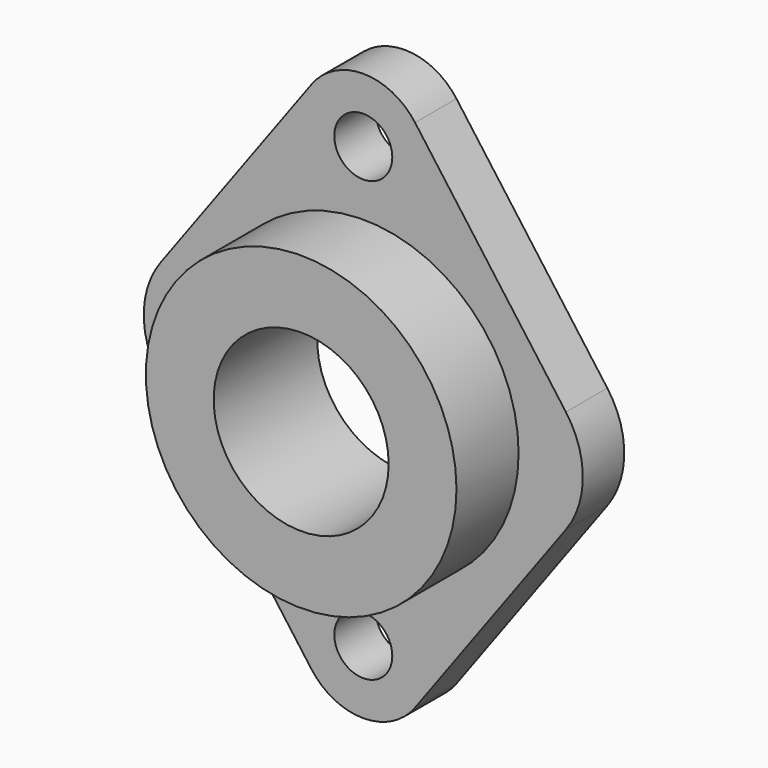
from build123d import *

# Parameters (mm, degrees)
F0_R     = 7.112
F0_R_2   = 38.1
F1_DEPTH = 12.7
F0_R_3   = 21.463
F2_DEPTH = 31.75
F4_START = -25.4
F4_DEPTH = 31.75


with BuildPart() as f1:
    # F0 (on Front) → F1 (new body)
    with BuildSketch(Plane.XZ):
        with BuildLine():
            ThreePointArc((12.7, 63.1597938122), (0, 69.596), (-12.7, 63.1597938122))
            Line((-12.7, 63.1597938122), (-49.6977319514, 12.7))
            ThreePointArc((-49.6977319514, 12.7), (-53.8547827604, 0), (-49.6977319514, -12.7))
            Line((-49.6977319514, -12.7), (-12.7, -63.1597938122))
            ThreePointArc((-12.7, -63.1597938122), (0, -69.596), (12.7, -63.1597938122))
            Line((12.7, -63.1597938122), (49.6977319514, -12.7))
            ThreePointArc((49.6977319514, -12.7), (53.8547827604, 0), (49.6977319514, 12.7))
            Line((49.6977319514, 12.7), (12.7, 63.1597938122))
        make_face()
        with Locations((0, -53.848)):
            Circle(F0_R, mode=Mode.SUBTRACT)
        Circle(F0_R_2, mode=Mode.SUBTRACT)
        with Locations((0, 53.848)):
            Circle(F0_R, mode=Mode.SUBTRACT)
    extrude(amount=F1_DEPTH)

    # F0 (on Front) → F2 (join)
    with BuildSketch(Plane.XZ):
        Circle(F0_R_2)
        Circle(F0_R_3, mode=Mode.SUBTRACT)
    extrude(amount=F2_DEPTH)

    # F3 (on Right) → F4 (cut)
    with BuildSketch(Plane.YZ.offset(F4_START)):
        with BuildLine():
            Line((-2.0067014742, -12.7), (-2.0067014742, 12.7))
            ThreePointArc((-2.0067014742, 12.7), (-5.8167014742, 16.51), (-9.6267014742, 12.7))
            Line((-9.6267014742, 12.7), (-9.6267014742, -12.7))
            ThreePointArc((-9.6267014742, -12.7), (-5.8167014742, -16.51), (-2.0067014742, -12.7))
        make_face()
    extrude(amount=-F4_DEPTH, mode=Mode.SUBTRACT)


solid = f1.part
